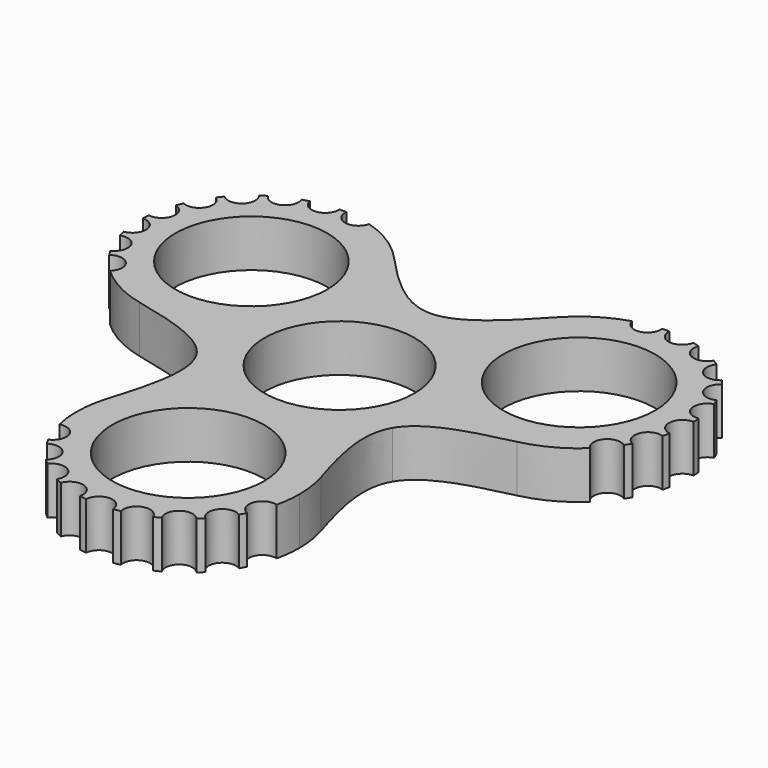
from build123d import *

# Parameters (mm, degrees)
F0_R     = 11.25
F0_R_2   = 11.1
F1_DEPTH = 7


with BuildPart() as f1:
    # F0 (on Top) → F1 (new body)
    with BuildSketch(Plane.XY):
        with BuildLine():
            ThreePointArc((-7.748711, 14), (-8.896077, 20.045379), (-12.178604, 25.25))
            ThreePointArc((-12.178604, 25.25), (-15.509523, 27.995592), (-19.43857, 29.783299))
            ThreePointArc((-19.43857, 29.783299), (-21.730813, 28.279712), (-23.37056, 30.476615))
            ThreePointArc((-23.37056, 30.476615), (-23.888766, 30.496073), (-24.407327, 30.499238))
            ThreePointArc((-24.407327, 30.499238), (-24.403627, 30.429082), (-24.402393, 30.35884))
            ThreePointArc((-24.402393, 30.35884), (-26.211143, 28.368005), (-28.365817, 29.978093))
            ThreePointArc((-28.365817, 29.978093), (-28.86589, 29.840823), (-29.361403, 29.687906))
            ThreePointArc((-29.361403, 29.687906), (-29.257095, 29.327562), (-29.221913, 28.954078))
            ThreePointArc((-29.221913, 28.954078), (-30.730036, 27.015508), (-32.97997, 28.00054))
            ThreePointArc((-32.97997, 28.00054), (-33.41562, 27.719249), (-33.842216, 27.424406))
            ThreePointArc((-33.842216, 27.424406), (-33.510815, 26.833108), (-33.39595, 26.165076))
            ThreePointArc((-33.39595, 26.165076), (-34.614896, 24.323893), (-36.785904, 24.727012))
            ThreePointArc((-36.785904, 24.727012), (-37.116805, 24.327737), (-37.434996, 23.918261))
            ThreePointArc((-37.434996, 23.918261), (-36.776559, 23.19703), (-36.53813, 22.25))
            ThreePointArc((-36.53813, 22.25), (-37.48608, 20.549062), (-39.431319, 20.460527))
            ThreePointArc((-39.431319, 20.460527), (-39.626841, 19.980228), (-39.807173, 19.494021))
            ThreePointArc((-39.807173, 19.494021), (-38.760591, 18.775238), (-38.357595, 17.571254))
            ThreePointArc((-38.357595, 17.571254), (-39.059036, 16.050154), (-40.67134, 15.596016))
            ThreePointArc((-40.67134, 15.596016), (-40.713384, 15.079152), (-40.739164, 14.561221))
            ThreePointArc((-40.739164, 14.561221), (-39.29066, 13.994843), (-38.685924, 12.56193))
            ThreePointArc((-38.685924, 12.56193), (-39.171083, 11.256075), (-40.391182, 10.583768))
            ThreePointArc((-40.391182, 10.583768), (-40.275855, 10.078183), (-40.144698, 9.576472))
            ThreePointArc((-40.144698, 9.576472), (-38.331679, 9.314212), (-37.492724, 7.685723))
            ThreePointArc((-37.492724, 7.685723), (-37.796862, 6.625509), (-38.616778, 5.887747))
            ThreePointArc((-38.616778, 5.887747), (-38.354757, 5.440241), (-38.078803, 5.001191))
            ThreePointArc((-38.078803, 5.001191), (-35.988644, 5.180162), (-34.888445, 3.394004))
            ThreePointArc((-34.888445, 3.394004), (-35.051037, 2.604109), (-35.512379, 1.942646))
            ThreePointArc((-35.512379, 1.942646), (-31.999656, -0.566155), (-27.956443, -2.07802))
            ThreePointArc((-27.956443, -2.07802), (-13.975629, 1.088231), (-7.748711, 14))
        make_face()
        with Locations((-24.248711, 14)):
            Circle(F0_R, mode=Mode.SUBTRACT)
        with BuildLine():
            ThreePointArc((27.956443, -2.07802), (9.959292, 5.75), (12.178604, 25.25))
            add(Edge.make_bspline(
                [(0, 16.75), (4.085687, 16.75), (8.171373, 20.950648), (12.178604, 25.25)],
                knots=[14.851545, 14.851545, 14.851545, 14.851545, 29.70309, 29.70309, 29.70309, 29.70309], degree=3))
            add(Edge.make_bspline(
                [(-12.178604, 25.25), (-8.171373, 20.950648), (-4.085687, 16.75), (0, 16.75)],
                knots=[0, 0, 0, 0, 14.851545, 14.851545, 14.851545, 14.851545], degree=3))
            ThreePointArc((-12.178604, 25.25), (-8.896077, 20.045379), (-7.748711, 14))
            ThreePointArc((-7.748711, 14), (-13.975629, 1.088231), (-27.956443, -2.07802))
            add(Edge.make_bspline(
                [(-27.956443, -2.07802), (-22.22948, -3.398708), (-16.548769, -4.836692), (-14.505926, -8.375)],
                knots=[0, 0, 0, 0, 14.851545, 14.851545, 14.851545, 14.851545], degree=3))
            add(Edge.make_bspline(
                [(-14.505926, -8.375), (-12.463082, -11.913308), (-14.058107, -17.551941), (-15.77784, -23.17198)],
                knots=[14.851545, 14.851545, 14.851545, 14.851545, 29.70309, 29.70309, 29.70309, 29.70309], degree=3))
            ThreePointArc((-15.77784, -23.17198), (0, -11.5), (15.77784, -23.17198))
            add(Edge.make_bspline(
                [(14.505926, -8.375), (12.463082, -11.913308), (14.058107, -17.551941), (15.77784, -23.17198)],
                knots=[14.851545, 14.851545, 14.851545, 14.851545, 29.70309, 29.70309, 29.70309, 29.70309], degree=3))
            add(Edge.make_bspline(
                [(27.956443, -2.07802), (22.22948, -3.398708), (16.548769, -4.836692), (14.505926, -8.375)],
                knots=[0, 0, 0, 0, 14.851545, 14.851545, 14.851545, 14.851545], degree=3))
        make_face()
        Circle(F0_R_2, mode=Mode.SUBTRACT)
        with BuildLine():
            ThreePointArc((19.43857, 29.783299), (15.509523, 27.995592), (12.178604, 25.25))
            ThreePointArc((12.178604, 25.25), (9.959292, 5.75), (27.956443, -2.07802))
            ThreePointArc((27.956443, -2.07802), (31.999656, -0.566155), (35.512379, 1.942646))
            ThreePointArc((35.512379, 1.942646), (35.356356, 4.67958), (38.078803, 5.001191))
            ThreePointArc((38.078803, 5.001191), (38.354757, 5.440241), (38.616778, 5.887747))
            ThreePointArc((38.616778, 5.887747), (37.644965, 8.45109), (40.144698, 9.576472))
            ThreePointArc((40.144698, 9.576472), (40.275855, 10.078183), (40.391182, 10.583768))
            ThreePointArc((40.391182, 10.583768), (38.693534, 12.736242), (40.739164, 14.561221))
            ThreePointArc((40.739164, 14.561221), (40.713384, 15.079152), (40.67134, 15.596016))
            ThreePointArc((40.67134, 15.596016), (38.405003, 17.138374), (39.807173, 19.494021))
            ThreePointArc((39.807173, 19.494021), (39.626841, 19.980228), (39.431319, 20.460527))
            ThreePointArc((39.431319, 20.460527), (36.80608, 21.25), (37.434996, 23.918261))
            ThreePointArc((37.434996, 23.918261), (37.116805, 24.327737), (36.785904, 24.727012))
            ThreePointArc((36.785904, 24.727012), (34.044769, 24.690521), (33.842216, 27.424406))
            ThreePointArc((33.842216, 27.424406), (33.41562, 27.719249), (32.97997, 28.00054))
            ThreePointArc((32.97997, 28.00054), (30.376676, 27.141463), (29.361403, 29.687906))
            ThreePointArc((29.361403, 29.687906), (28.86589, 29.840823), (28.365817, 29.978093))
            ThreePointArc((28.365817, 29.978093), (26.141341, 28.37595), (24.407327, 30.499238))
            ThreePointArc((24.407327, 30.499238), (23.888766, 30.496073), (23.37056, 30.476615))
            ThreePointArc((23.37056, 30.476615), (23.380275, 30.363156), (23.383516, 30.249328))
            ThreePointArc((23.383516, 30.249328), (21.618151, 28.263139), (19.43857, 29.783299))
        make_face()
        with Locations((24.248711, 14)):
            Circle(F0_R, mode=Mode.SUBTRACT)
        with BuildLine():
            ThreePointArc((16.5, -28), (16.318461, -25.559135), (15.77784, -23.17198))
            ThreePointArc((15.77784, -23.17198), (0, -11.5), (-15.77784, -23.17198))
            ThreePointArc((-15.77784, -23.17198), (-16.490132, -27.429437), (-16.073809, -31.725945))
            ThreePointArc((-16.073809, -31.725945), (-14.308634, -32.04056), (-13.504928, -33.643332))
            ThreePointArc((-13.504928, -33.643332), (-13.832599, -34.74029), (-14.708243, -35.477806))
            ThreePointArc((-14.708243, -35.477806), (-14.465991, -35.936315), (-14.209451, -36.386984))
            ThreePointArc((-14.209451, -36.386984), (-12.151778, -36.27846), (-11.09033, -38.044564))
            ThreePointArc((-11.09033, -38.044564), (-11.270591, -38.874353), (-11.778881, -39.554564))
            ThreePointArc((-11.778881, -39.554564), (-11.409965, -39.919005), (-11.029779, -40.271673))
            ThreePointArc((-11.029779, -40.271673), (-8.805048, -39.627685), (-7.464011, -41.516009))
            ThreePointArc((-7.464011, -41.516009), (-7.539221, -42.059316), (-7.759194, -42.561762))
            ThreePointArc((-7.759194, -42.561762), (-7.297763, -42.7984), (-6.829124, -43.020422))
            ThreePointArc((-6.829124, -43.020422), (-4.597611, -41.769739), (-2.961646, -43.73633))
            ThreePointArc((-2.961646, -43.73633), (-2.976607, -43.980508), (-3.021269, -44.221034))
            ThreePointArc((-3.021269, -44.221034), (-2.510036, -44.307965), (-1.996324, -44.378788))
            ThreePointArc((-1.996324, -44.378788), (0, -42.5), (1.996324, -44.378788))
            ThreePointArc((1.996324, -44.378788), (2.510036, -44.307965), (3.021269, -44.221034))
            ThreePointArc((3.021269, -44.221034), (4.360234, -41.828896), (6.829124, -43.020422))
            ThreePointArc((6.829124, -43.020422), (7.297763, -42.7984), (7.759194, -42.561762))
            ThreePointArc((7.759194, -42.561762), (8.316858, -39.877705), (11.029779, -40.271673))
            ThreePointArc((11.029779, -40.271673), (11.409965, -39.919005), (11.778881, -39.554564))
            ThreePointArc((11.778881, -39.554564), (11.503623, -36.827041), (14.209451, -36.386984))
            ThreePointArc((14.209451, -36.386984), (14.465991, -35.936315), (14.708243, -35.477806))
            ThreePointArc((14.708243, -35.477806), (13.625543, -32.959292), (16.073809, -31.725945))
            ThreePointArc((16.073809, -31.725945), (16.393106, -29.87512), (16.5, -28))
        make_face()
        with Locations((0, -28)):
            Circle(F0_R, mode=Mode.SUBTRACT)
    extrude(amount=F1_DEPTH)


solid = f1.part
